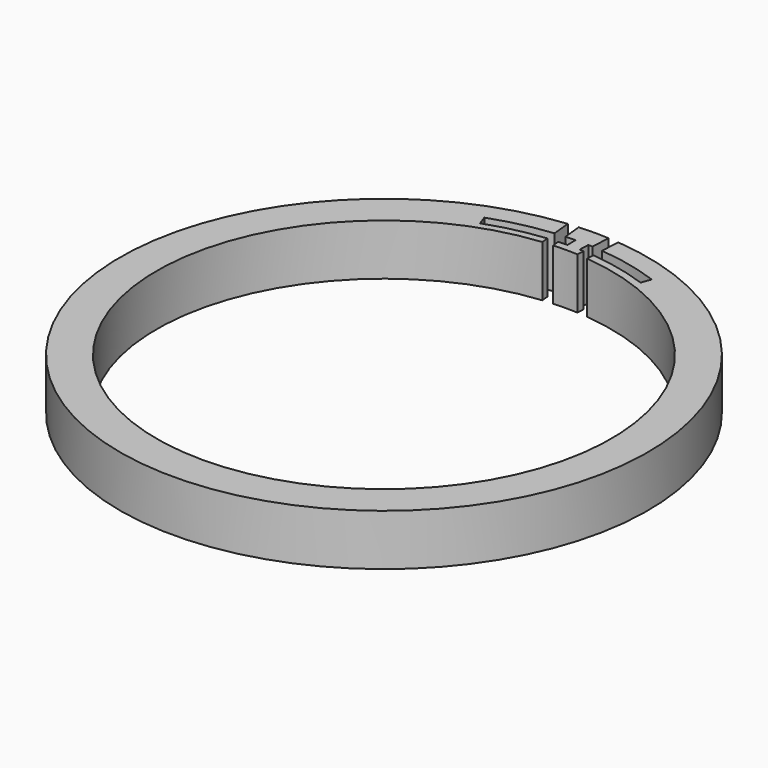
from build123d import *

# Parameters (mm, degrees)
BOX865_W               = 60
BOX865_H               = 60
BOX865_DEPTH           = 7
BOX865_PLACEMENT_ANGLE = 1
BOX863_W               = 60
BOX863_H               = 60
BOX863_DEPTH           = 7
BOX863_PLACEMENT_ANGLE = 2
BOX866_W               = 120
BOX866_H               = 60
BOX866_DEPTH           = 7
TUBE097_R              = 33.4
TUBE097_R_2            = 32
TUBE097_DEPTH          = 7
BOX862_W               = 60
BOX862_H               = 60
BOX862_DEPTH           = 7
BOX862_PLACEMENT_ANGLE = 20
BOX861_W               = 60
BOX861_H               = 60
BOX861_DEPTH           = 7
BOX861_PLACEMENT_ANGLE = 20
BOX864_W               = 120
BOX864_H               = 60
BOX864_DEPTH           = 7
TUBE096_R              = 33.4
TUBE096_R_2            = 32
TUBE096_DEPTH          = 7
CYLINDER2557_R         = 31
CYLINDER2557_DEPTH     = 7
BOX860_W               = 1.4
BOX860_H               = 60
BOX860_DEPTH           = 7
BOX860_PLACEMENT_ANGLE = 5.7
BOX859_W               = 1.4
BOX859_H               = 60
BOX859_DEPTH           = 7
BOX859_PLACEMENT_ANGLE = 3
TUBE095_R              = 36
TUBE095_R_2            = 31
TUBE095_DEPTH          = 7


with BuildPart() as krychle864:
    # Box865 → Box865 (new body)
    with BuildSketch(Plane.XY):
        with Locations((30, 30)):
            Rectangle(BOX865_W, BOX865_H)
    extrude(amount=BOX865_DEPTH)


with BuildPart() as krychle864_1:
    # Box865 placement: moved
    add(krychle864.part.moved(Location((-59.990862, -1.047144, -22))).rotate(Axis((-59.990862, -1.047144, -22), (0, 0, 1)), BOX865_PLACEMENT_ANGLE))


with BuildPart() as compound1133:
    # Box863 → Box863 (new body)
    with BuildSketch(Plane.XY):
        with Locations((30, 30)):
            Rectangle(BOX863_W, BOX863_H)
    extrude(amount=BOX863_DEPTH)


with BuildPart() as compound1133_1:
    # Box863 placement: moved
    add(compound1133.part.moved(Location((0, 0, -22))).rotate(Axis((0, 0, -22), (0, 0, -1)), BOX863_PLACEMENT_ANGLE))

    # Compound1133: union Krychle864
    add(krychle864_1.part)


with BuildPart() as krychle865:
    # Box866 → Box866 (new body)
    with BuildSketch(Plane(origin=(-60, -60, -22), x_dir=(1, 0, 0), z_dir=(0, 0, 1))):
        with Locations((60, 30)):
            Rectangle(BOX866_W, BOX866_H)
    extrude(amount=BOX866_DEPTH)


with BuildPart() as cut955:
    # Tube097 → Tube097 (new body)
    with BuildSketch(Plane.XY.offset(-22)):
        Circle(TUBE097_R)
        Circle(TUBE097_R_2, mode=Mode.SUBTRACT)
    extrude(amount=TUBE097_DEPTH)

    # Cut956: cut Krychle865
    add(krychle865.part, mode=Mode.SUBTRACT)

    # Cut955: cut Compound1133
    add(compound1133_1.part, mode=Mode.SUBTRACT)


with BuildPart() as cut955_1:
    # Cut955 placement: moved
    add(cut955.part.moved(Location((0, 0, -7))))


with BuildPart() as krychle861:
    # Box862 → Box862 (new body)
    with BuildSketch(Plane.XY):
        with Locations((30, 30)):
            Rectangle(BOX862_W, BOX862_H)
    extrude(amount=BOX862_DEPTH)


with BuildPart() as krychle861_1:
    # Box862 placement: moved
    add(krychle861.part.moved(Location((-56.381557, -20.521209, -22))).rotate(Axis((-56.381557, -20.521209, -22), (0, 0, 1)), BOX862_PLACEMENT_ANGLE))


with BuildPart() as compound1134:
    # Box861 → Box861 (new body)
    with BuildSketch(Plane.XY):
        with Locations((30, 30)):
            Rectangle(BOX861_W, BOX861_H)
    extrude(amount=BOX861_DEPTH)


with BuildPart() as compound1134_1:
    # Box861 placement: moved
    add(compound1134.part.moved(Location((0, 0, -22))).rotate(Axis((0, 0, -22), (0, 0, -1)), BOX861_PLACEMENT_ANGLE))

    # Compound1134: union Krychle861
    add(krychle861_1.part)


with BuildPart() as krychle863:
    # Box864 → Box864 (new body)
    with BuildSketch(Plane(origin=(-60, -60, -22), x_dir=(1, 0, 0), z_dir=(0, 0, 1))):
        with Locations((60, 30)):
            Rectangle(BOX864_W, BOX864_H)
    extrude(amount=BOX864_DEPTH)


with BuildPart() as cut950:
    # Tube096 → Tube096 (new body)
    with BuildSketch(Plane.XY.offset(-22)):
        Circle(TUBE096_R)
        Circle(TUBE096_R_2, mode=Mode.SUBTRACT)
    extrude(amount=TUBE096_DEPTH)

    # Cut952: cut Krychle863
    add(krychle863.part, mode=Mode.SUBTRACT)

    # Cut951: cut Compound1134
    add(compound1134_1.part, mode=Mode.SUBTRACT)


with BuildPart() as cut950_1:
    # Cut951 placement: moved
    add(cut950.part.moved(Location((0, 0, -7))))

    # Cut950: cut Cut955
    add(cut955_1.part, mode=Mode.SUBTRACT)


with BuildPart() as cut950_2:
    # Cut950 placement: moved
    add(cut950_1.part.moved(Location((0, 0, 32))))


with BuildPart() as obj1:
    # Cylinder2557 → Cylinder2557 (new body)
    with BuildSketch(Plane.XY.offset(-22)):
        Circle(CYLINDER2557_R)
    extrude(amount=CYLINDER2557_DEPTH)


with BuildPart() as krychle859:
    # Box860 → Box860 (new body)
    with BuildSketch(Plane.XY):
        with Locations((0.7, 30)):
            Rectangle(BOX860_W, BOX860_H)
    extrude(amount=BOX860_DEPTH)


with BuildPart() as krychle859_1:
    # Box860 placement: moved
    add(krychle859.part.moved(Location((0, 0, -22))).rotate(Axis((0, 0, -22), (0, 0, 1)), BOX860_PLACEMENT_ANGLE))


with BuildPart() as cut949:
    # Box859 → Box859 (new body)
    with BuildSketch(Plane.XY):
        with Locations((0.7, 30)):
            Rectangle(BOX859_W, BOX859_H)
    extrude(amount=BOX859_DEPTH)


with BuildPart() as cut949_1:
    # Box859 placement: moved
    add(cut949.part.moved(Location((0, 0, -22))).rotate(Axis((0, 0, -22), (0, 0, -1)), BOX859_PLACEMENT_ANGLE))

    # Compound1132: union Krychle859
    add(krychle859_1.part)

    # Cut949: cut obj1
    add(obj1.part, mode=Mode.SUBTRACT)


with BuildPart() as cut949_2:
    # Cut949 placement: moved
    add(cut949_1.part.moved(Location((0, 0, 25))))


with BuildPart() as cut954:
    # Tube095 → Tube095 (new body)
    with BuildSketch(Plane.XY.offset(3)):
        Circle(TUBE095_R)
        Circle(TUBE095_R_2, mode=Mode.SUBTRACT)
    extrude(amount=TUBE095_DEPTH)

    # Cut953: cut Cut949
    add(cut949_2.part, mode=Mode.SUBTRACT)

    # Cut954: cut Cut950
    add(cut950_2.part, mode=Mode.SUBTRACT)


with BuildPart() as cut954_1:
    # Cut954 placement: moved
    add(cut954.part.moved(Location((0, 0, -8))))


solid = cut954_1.part
